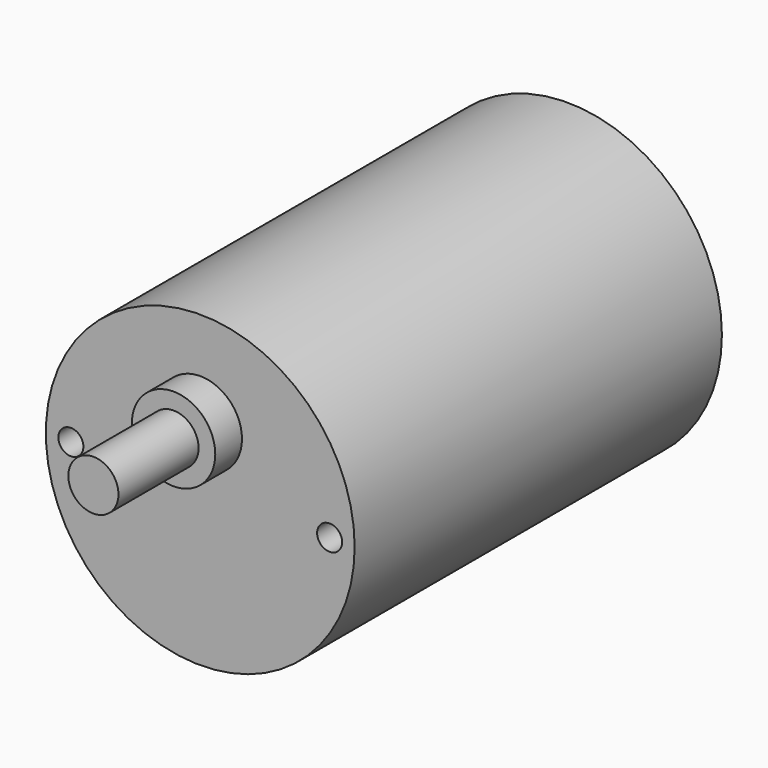
from build123d import *

# Parameters (mm, degrees)
F0_R     = 18.5
F0_R_2   = 1.5
F0_R_3   = 3
F1_DEPTH = 55
F2_R     = 5
F3_DEPTH = 4
F4_R     = 3
F5_DEPTH = 12


with BuildPart() as f1:
    # F0 (on Front) → F1 (new body)
    with BuildSketch(Plane.XZ):
        Circle(F0_R)
        with Locations((-15.5, 0)):
            Circle(F0_R_2, mode=Mode.SUBTRACT)
        with Locations((0, 7)):
            Circle(F0_R_3, mode=Mode.SUBTRACT)
        with Locations((15.5, 0)):
            Circle(F0_R_2, mode=Mode.SUBTRACT)
    extrude(amount=F1_DEPTH)

    # F2 (on face) → F3 (join)
    with BuildSketch(Plane.XZ.offset(55)):
        with Locations((0, 7)):
            Circle(F2_R)
    extrude(amount=F3_DEPTH)

    # F4 (on face) → F5 (join)
    with BuildSketch(Plane.XZ.offset(59)):
        with Locations((0, 7)):
            Circle(F4_R)
    extrude(amount=F5_DEPTH)


solid = f1.part
